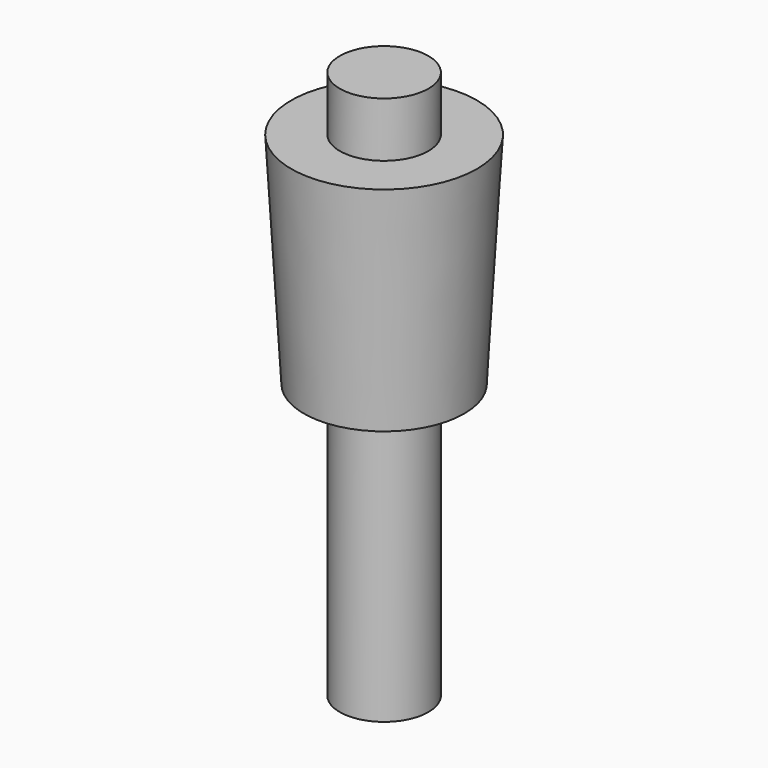
from build123d import *

# Parameters (mm, degrees)
F2_R     = 11
F0_R     = 9.5
F4_R     = 5.25
F5_DEPTH = 32.5


with BuildPart() as f3:
    # F2 (on offset) → F3 section 0
    with BuildSketch(Plane.XY.offset(26)):
        Circle(F2_R)
    # F0 (on Top) → F3 section 1
    with BuildSketch(Plane.XY):
        Circle(F0_R)
    loft()

    # F4 (on Top) → F5 (join, symmetric)
    with BuildSketch(Plane.XY):
        Circle(F4_R)
    extrude(amount=F5_DEPTH, both=True)


solid = f3.part
